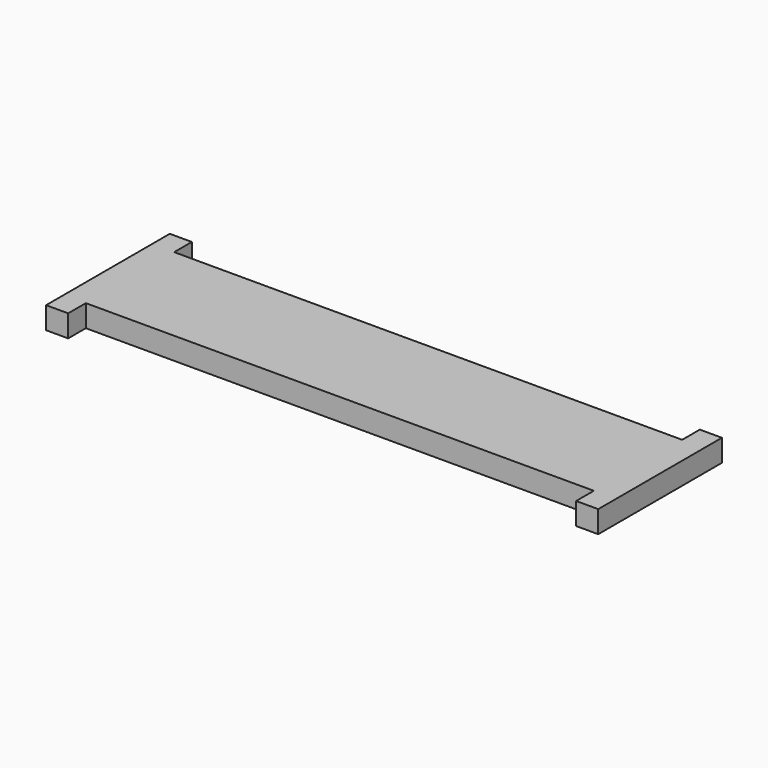
from build123d import *

# Parameters (mm, degrees)
F1_DEPTH = 3.2


with BuildPart() as f1:
    # F0 (on Top) → F1 (new body)
    with BuildSketch(Plane.XY):
        Polygon((36.8, 11.2), (36.8, 8), (-36.8, 8), (-36.8, 11.2), (-40, 11.2), (-40, 8), (-40, -8), (-40, -11.2), (-36.8, -11.2), (-36.8, -8), (36.8, -8), (36.8, -11.2), (40, -11.2), (40, -8), (40, 8), (40, 11.2), align=None)
    extrude(amount=F1_DEPTH)


solid = f1.part
